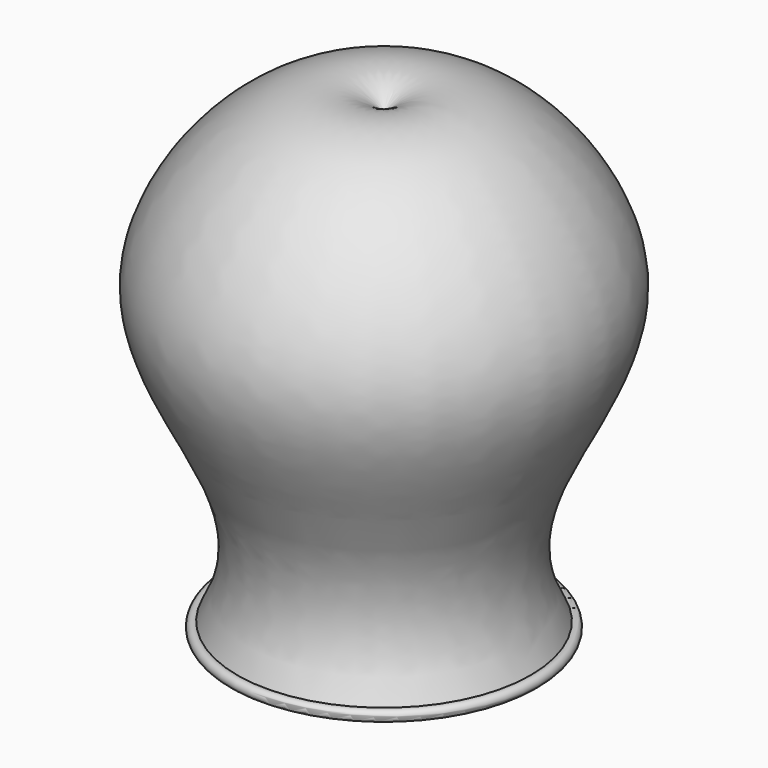
from build123d import *


with BuildPart() as f1:
    # F0 (on Front) → F1 (revolve)
    with BuildSketch(Plane.XZ):
        with BuildLine():
            Line((0, 38.1), (0, 0))
            Line((0, 0), (12.7, 0))
            add(Edge.make_bspline(
                [(12.2278062255, 0.7963018577), (12.3729416529, 0.5328503243), (12.5301516174, 0.2674452092), (12.7, 0)],
                knots=[0.9859891387, 0.9859891387, 0.9859891387, 0.9859891387, 1, 1, 1, 1], degree=3))
            add(Edge.make_bspline(
                [(0, 38.1), (5.8853807364, 43.5934763346), (28.025828894, 23.9867953131), (6.869763873, 10.5222833032), (12.2278062255, 0.7963018577)],
                knots=[0, 0, 0, 0, 0.468742662, 0.9859891387, 0.9859891387, 0.9859891387, 0.9859891387], degree=3))
        make_face()
        with BuildLine():
            add(Edge.make_bspline(
                [(12.2278062255, 0.7963018577), (12.3729416529, 0.5328503243), (12.5301516174, 0.2674452092), (12.7, 0)],
                knots=[0.9859891387, 0.9859891387, 0.9859891387, 0.9859891387, 1, 1, 1, 1], degree=3))
            ThreePointArc((12.7, 0), (12.8243967991, 0.6119176968), (12.2278062255, 0.7963018577))
        make_face()
    revolve(axis=Axis((0, 0, 19.05), (0, 0, 1)))


solid = f1.part
